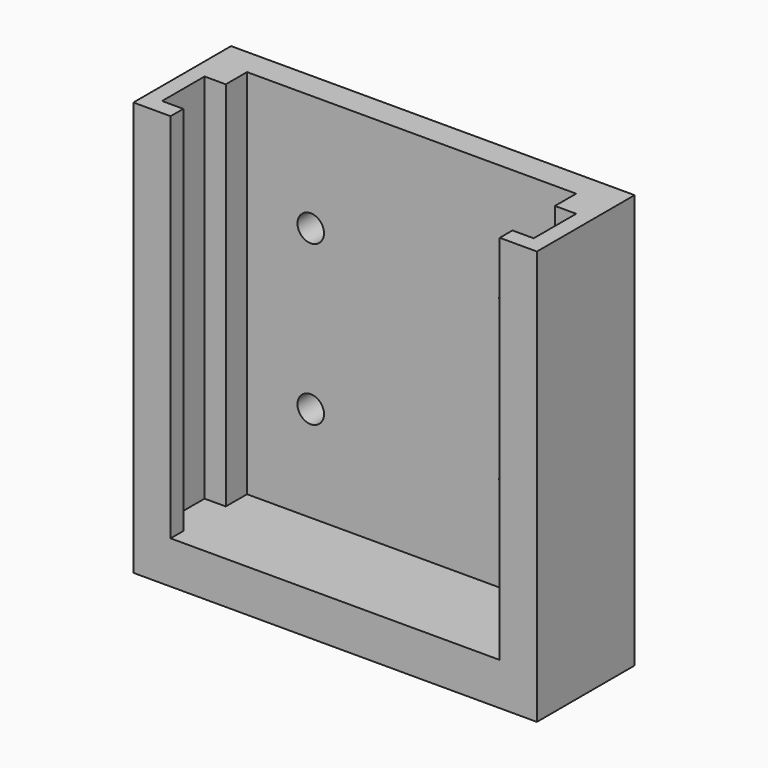
from build123d import *

# Parameters (mm, degrees)
F0_W     = 76
F0_H     = 23
F1_DEPTH = 8
F3_DEPTH = 70
F4_R     = 2.5
F5_DEPTH = 25


with BuildPart() as f1:
    # F0 (on Top) → F1 (new body)
    with BuildSketch(Plane.XY):
        with Locations((-1.670267, -10.164521)):
            Rectangle(F0_W, F0_H)
    extrude(amount=F1_DEPTH)

    # F2 (on face) → F3 (join)
    with BuildSketch(Plane.XY.offset(8)):
        Polygon((-39.670267, 1.335479), (-39.670267, -21.664521), (-32.670267, -21.664521), (-32.670267, -18.664521), (-36.670267, -18.664521), (-36.670267, -8.664521), (-32.670267, -8.664521), (-32.670267, -3.664521), (29.329733, -3.664521), (29.329733, -8.664521), (33.329733, -8.664521), (33.329733, -18.664521), (29.329733, -18.664521), (29.329733, -21.664521), (36.329733, -21.664521), (36.329733, 1.335479), align=None)
    extrude(amount=F3_DEPTH)

    # F4 (on face) → F5 (cut)
    with BuildSketch(Plane.XZ.offset(3.664521)):
        with Locations((17.329733, 56)):
            Circle(F4_R)
        with Locations((-20.670267, 56)):
            Circle(F4_R)
        with Locations((-20.670267, 26)):
            Circle(F4_R)
        with Locations((17.329733, 26)):
            Circle(F4_R)
    extrude(amount=-F5_DEPTH, mode=Mode.SUBTRACT)


solid = f1.part
